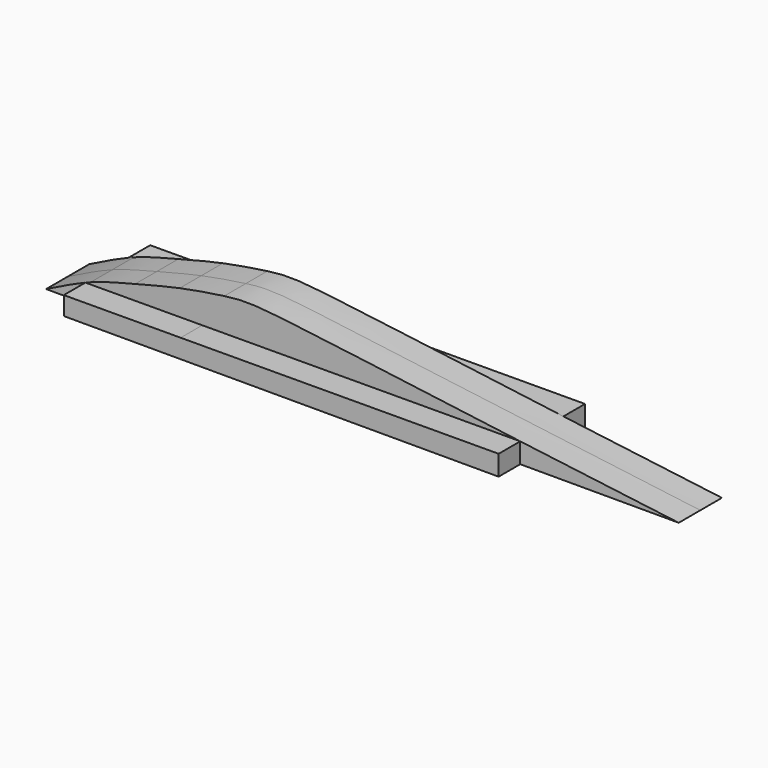
from build123d import *

# Parameters (mm, degrees)
F1_DEPTH = 2.5
F3_DEPTH = 5


with BuildPart() as f1:
    # F0 (on Front) → F1 (new body, symmetric)
    with BuildSketch(Plane.XZ):
        with BuildLine():
            Line((-43.5, 0), (-1.4094070066, 0))
            add(Edge.make_bspline(
                [(-43.5, 4.8), (-39.8710331933, 5.2983873013), (-40.401533246, 4.8974864185), (-1.4094070066, 0)],
                knots=[0.5607612566, 0.5607612566, 0.5607612566, 0.5607612566, 1, 1, 1, 1], degree=3))
            Line((-43.5, 4.8), (-43.5, 0))
        make_face()
        with BuildLine():
            Line((-47.625, 0), (-43.5, 0))
            Line((-43.5, 0), (-43.5, 4.8))
            add(Edge.make_bspline(
                [(-47.625, 4.1), (-46.191734982, 4.3979293395), (-44.6404650354, 4.643373246), (-43.5, 4.8)],
                knots=[0.422722951, 0.422722951, 0.422722951, 0.422722951, 0.5607612566, 0.5607612566, 0.5607612566, 0.5607612566], degree=3))
            Line((-47.625, 4.1), (-47.625, 0))
        make_face()
        with BuildLine():
            Line((-47.625, 0), (-43.5, 0))
            Line((-43.5, 0), (-43.5, 4.8))
            add(Edge.make_bspline(
                [(-47.625, 4.1), (-46.191734982, 4.3979293395), (-44.6404650354, 4.643373246), (-43.5, 4.8)],
                knots=[0.422722951, 0.422722951, 0.422722951, 0.422722951, 0.5607612566, 0.5607612566, 0.5607612566, 0.5607612566], degree=3))
            Line((-47.625, 4.1), (-47.625, 0))
        make_face()
        with BuildLine():
            Line((-51.75, 0), (-47.625, 0))
            Line((-47.625, 0), (-47.625, 4.1))
            add(Edge.make_bspline(
                [(-51.75, 3.1), (-50.3924722152, 3.446603597), (-49.0685918755, 3.7999240416), (-47.625, 4.1)],
                knots=[0.2836900617, 0.2836900617, 0.2836900617, 0.2836900617, 0.422722951, 0.422722951, 0.422722951, 0.422722951], degree=3))
            Line((-51.75, 3.1), (-51.75, 0))
        make_face()
        with BuildLine():
            Line((-60, 0), (-55.875, 0))
            Line((-55.875, 0), (-55.875, 1.9))
            add(Edge.make_bspline(
                [(-60, 0), (-58.6279008986, 0.6754279552), (-57.2727716722, 1.3762478568), (-55.875, 1.9)],
                knots=[0, 0, 0, 0, 0.14381593, 0.14381593, 0.14381593, 0.14381593], degree=3))
        make_face()
        with BuildLine():
            Line((-55.875, 0), (-51.75, 0))
            Line((-51.75, 0), (-51.75, 3.1))
            add(Edge.make_bspline(
                [(-55.875, 1.9), (-54.5155393398, 2.4093968124), (-53.1157417417, 2.751299218), (-51.75, 3.1)],
                knots=[0.14381593, 0.14381593, 0.14381593, 0.14381593, 0.2836900617, 0.2836900617, 0.2836900617, 0.2836900617], degree=3))
            Line((-55.875, 1.9), (-55.875, 0))
        make_face()
        with BuildLine():
            Line((-60, 0), (-55.875, 0))
            Line((-55.875, 0), (-55.875, 1.9))
            add(Edge.make_bspline(
                [(-60, 0), (-58.6279008986, 0.6754279552), (-57.2727716722, 1.3762478568), (-55.875, 1.9)],
                knots=[0, 0, 0, 0, 0.14381593, 0.14381593, 0.14381593, 0.14381593], degree=3))
        make_face()
    extrude(amount=F1_DEPTH, both=True)

    # F2 (on Front) → F3 (join, symmetric)
    with BuildSketch(Plane.XZ):
        with BuildLine():
            Line((-56.3516374265, 0), (-48.6134569347, 0))
            add(Edge.make_bspline(
                [(-45.5359602044, 1.7534863618), (-46.4926973174, 1.2011188271), (-47.5249209999, 0.6140901608), (-48.6134569347, 0)],
                knots=[25.5941661656, 25.5941661656, 25.5941661656, 25.5941661656, 27.1611911657, 27.1611911657, 27.1611911657, 27.1611911657], degree=3))
            Line((-45.5359602044, 1.7534863618), (-56.3582745625, 1.7115182598))
            Line((-56.3582745625, 1.7115182598), (-56.3516374265, 0))
        make_face()
        with BuildLine():
            Line((-48.6134569347, 0), (-16.0882583667, 0))
            Line((-16.0882583667, 0), (-16.0882583667, 1.8676822825))
            Line((-16.0882583667, 1.8676822825), (-45.5359602044, 1.7534863618))
            add(Edge.make_bspline(
                [(-45.5359602044, 1.7534863618), (-46.4926973174, 1.2011188271), (-47.5249209999, 0.6140901608), (-48.6134569347, 0)],
                knots=[25.5941661656, 25.5941661656, 25.5941661656, 25.5941661656, 27.1611911657, 27.1611911657, 27.1611911657, 27.1611911657], degree=3))
        make_face()
    extrude(amount=F3_DEPTH, both=True)


solid = f1.part
